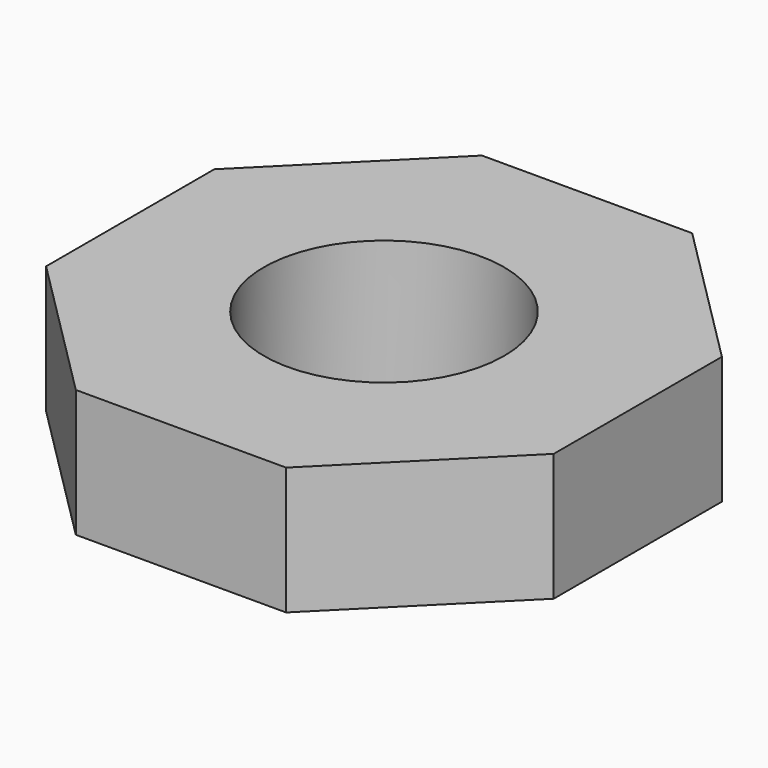
from build123d import *

# Parameters (mm, degrees)
F0_R     = 23.927843
F1_DEPTH = 25.4


with BuildPart() as f1:
    # F0 (on Top) → F1 (new body)
    with BuildSketch(Plane.XY):
        Polygon((-50.546721, 20.937137), (-50.546721, -20.937137), (-20.937137, -50.546721), (20.937137, -50.546721), (50.546721, -20.937137), (50.546721, 20.937137), (20.937137, 50.546721), (-20.937137, 50.546721), align=None)
        Circle(F0_R, mode=Mode.SUBTRACT)
    extrude(amount=F1_DEPTH)


solid = f1.part
